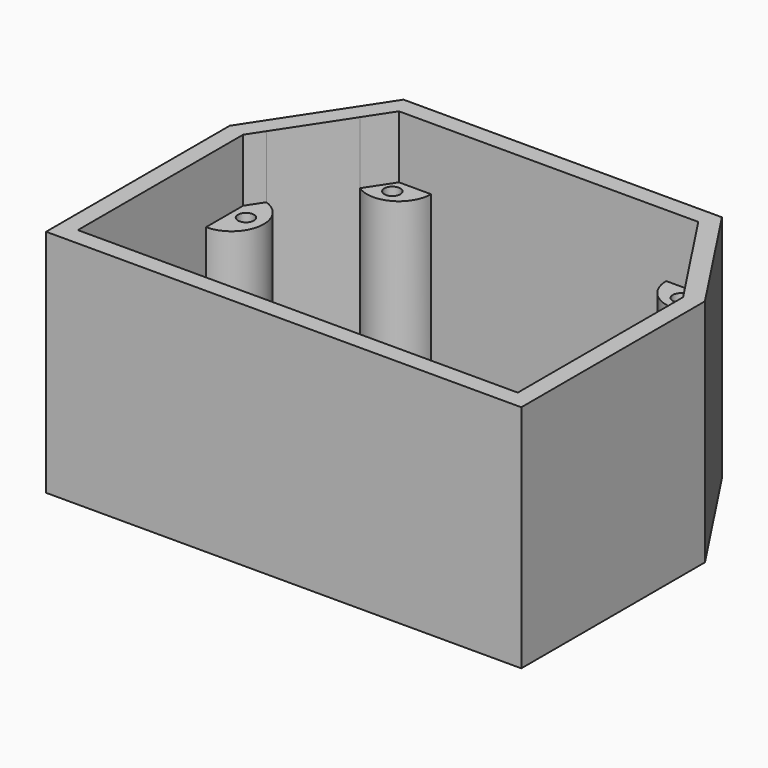
from build123d import *

# Parameters (mm, degrees)
F6_R      = 1.5
F7_DEPTH  = 29.2
F4_R      = 1.5
F8_DEPTH  = 2.1
F1_W      = 3.3
F1_H      = 10
F0_W      = 3.3
F0_H      = 10
F9_DEPTH  = 6.1
F10_DEPTH = 40.9


with BuildPart() as f7:
    # F6 (on offset) → F7 (new body)
    with BuildSketch(Plane.XY.offset(2.1)):
        Polygon((33.1796569254, 61.95), (2.5, 61.95), (-26.3796569254, 61.95), (-41.05, 39.6376911413), (-41.05, -3.3), (47.85, -3.3), (47.85, 39.6376911413), align=None)
        Polygon((44.55, 29.97), (44.55, 7.15), (44.55, 0), (37.4, 0), (-30.6, 0), (-37.75, 0), (-37.75, 7.15), (-37.75, 29.97), (-37.75, 38.65), (-35.7847248185, 41.6390116829), (-27.896317712, 53.6365890312), (-24.6, 58.65), (-18.6, 58.65), (3.4, 58.65), (25.4, 58.65), (31.4, 58.65), (34.696317712, 53.6365890312), (42.5847248185, 41.6390116829), (44.55, 38.65), (44.55, 36.9490727423), align=None, mode=Mode.SUBTRACT)
        with BuildLine():
            ThreePointArc((42.5847248185, 41.6390116829), (38.6333256766, 34.9735237327), (44.55, 29.97))
            Line((44.55, 29.97), (44.55, 36.9490727423))
            Line((44.55, 36.9490727423), (44.55, 38.65))
            Line((44.55, 38.65), (42.5847248185, 41.6390116829))
        make_face()
        with Locations((41.87, 35.97)):
            Circle(F6_R, mode=Mode.SUBTRACT)
        with BuildLine():
            Line((-37.75, 38.65), (-37.75, 29.97))
            ThreePointArc((-37.75, 29.97), (-31.8333256766, 34.9735237327), (-35.7847248185, 41.6390116829))
            Line((-35.7847248185, 41.6390116829), (-37.75, 38.65))
        make_face()
        with Locations((-35.07, 35.97)):
            Circle(F6_R, mode=Mode.SUBTRACT)
        with BuildLine():
            Line((44.55, 0), (44.55, 7.15))
            ThreePointArc((44.55, 7.15), (39.4941865145, 5.0558134855), (37.4, 0))
            Line((37.4, 0), (44.55, 0))
        make_face()
        with Locations((41.87, 2.68)):
            Circle(F6_R, mode=Mode.SUBTRACT)
        with BuildLine():
            Line((-37.75, 0), (-30.6, 0))
            ThreePointArc((-30.6, 0), (-32.6941865145, 5.0558134855), (-37.75, 7.15))
            Line((-37.75, 7.15), (-37.75, 0))
        make_face()
        with Locations((-35.07, 2.68)):
            Circle(F6_R, mode=Mode.SUBTRACT)
        with BuildLine():
            ThreePointArc((25.4, 58.65), (28.5520100309, 53.3690007446), (34.696317712, 53.6365890312))
            Line((34.696317712, 53.6365890312), (31.4, 58.65))
            Line((31.4, 58.65), (25.4, 58.65))
        make_face()
        with Locations((30.3835309261, 55.8274496246)):
            Circle(F6_R, mode=Mode.SUBTRACT)
        with BuildLine():
            Line((-24.6, 58.65), (-27.896317712, 53.6365890312))
            ThreePointArc((-27.896317712, 53.6365890312), (-21.7520100309, 53.3690007446), (-18.6, 58.65))
            Line((-18.6, 58.65), (-24.6, 58.65))
        make_face()
        with Locations((-23.5835309261, 55.8274496246)):
            Circle(F6_R, mode=Mode.SUBTRACT)
    extrude(amount=F7_DEPTH)



with BuildPart() as f8:
    # F4 (on Top) → F8 (new body)
    with BuildSketch(Plane.XY):
        Polygon((33.1796569254, 61.95), (2.5, 61.95), (-26.3796569254, 61.95), (-41.05, 39.6376911413), (-41.05, -3.3), (47.85, -3.3), (47.85, 39.6376911413), align=None)
        with BuildLine():
            Line((44.55, 7.15), (44.55, 0))
            Line((44.55, 0), (37.4, 0))
            Line((37.4, 0), (-30.6, 0))
            Line((-30.6, 0), (-37.75, 0))
            Line((-37.75, 0), (-37.75, 7.15))
            Line((-37.75, 7.15), (-37.75, 29.97))
            Line((-37.75, 29.97), (-37.75, 38.65))
            Line((-37.75, 38.65), (-35.7847248185, 41.6390116829))
            Line((-35.7847248185, 41.6390116829), (-27.896317712, 53.6365890312))
            Line((-27.896317712, 53.6365890312), (-24.6, 58.65))
            Line((-24.6, 58.65), (-18.6, 58.65))
            Line((-18.6, 58.65), (3.4, 58.65))
            Line((3.4, 58.65), (25.4, 58.65))
            Line((25.4, 58.65), (31.4, 58.65))
            Line((31.4, 58.65), (34.696317712, 53.6365890312))
            Line((34.696317712, 53.6365890312), (42.5847248185, 41.6390116829))
            ThreePointArc((42.5847248185, 41.6390116829), (38.6333256766, 34.9735237327), (44.55, 29.97))
            Line((44.55, 29.97), (44.55, 7.15))
        make_face(mode=Mode.SUBTRACT)
        Polygon((33.1796569254, 61.95), (2.5, 61.95), (-26.3796569254, 61.95), (-41.05, 39.6376911413), (-41.05, -3.3), (47.85, -3.3), (47.85, 39.6376911413), align=None)
        with BuildLine():
            Line((44.55, 7.15), (44.55, 0))
            Line((44.55, 0), (37.4, 0))
            Line((37.4, 0), (-30.6, 0))
            Line((-30.6, 0), (-37.75, 0))
            Line((-37.75, 0), (-37.75, 7.15))
            Line((-37.75, 7.15), (-37.75, 29.97))
            Line((-37.75, 29.97), (-37.75, 38.65))
            Line((-37.75, 38.65), (-35.7847248185, 41.6390116829))
            Line((-35.7847248185, 41.6390116829), (-27.896317712, 53.6365890312))
            Line((-27.896317712, 53.6365890312), (-24.6, 58.65))
            Line((-24.6, 58.65), (-18.6, 58.65))
            Line((-18.6, 58.65), (3.4, 58.65))
            Line((3.4, 58.65), (25.4, 58.65))
            Line((25.4, 58.65), (31.4, 58.65))
            Line((31.4, 58.65), (34.696317712, 53.6365890312))
            Line((34.696317712, 53.6365890312), (42.5847248185, 41.6390116829))
            ThreePointArc((42.5847248185, 41.6390116829), (38.6333256766, 34.9735237327), (44.55, 29.97))
            Line((44.55, 29.97), (44.55, 7.15))
        make_face(mode=Mode.SUBTRACT)
        with BuildLine():
            Line((-30.6, 0), (37.4, 0))
            ThreePointArc((37.4, 0), (39.4941865145, 5.0558134855), (44.55, 7.15))
            Line((44.55, 7.15), (44.55, 29.97))
            ThreePointArc((44.55, 29.97), (38.6333256766, 34.9735237327), (42.5847248185, 41.6390116829))
            Line((42.5847248185, 41.6390116829), (34.696317712, 53.6365890312))
            ThreePointArc((34.696317712, 53.6365890312), (28.5520100309, 53.3690007446), (25.4, 58.65))
            Line((25.4, 58.65), (3.4, 58.65))
            Line((3.4, 58.65), (-18.6, 58.65))
            ThreePointArc((-18.6, 58.65), (-21.7520100309, 53.3690007446), (-27.896317712, 53.6365890312))
            Line((-27.896317712, 53.6365890312), (-35.7847248185, 41.6390116829))
            ThreePointArc((-35.7847248185, 41.6390116829), (-31.8333256766, 34.9735237327), (-37.75, 29.97))
            Line((-37.75, 29.97), (-37.75, 7.15))
            ThreePointArc((-37.75, 7.15), (-32.6941865145, 5.0558134855), (-30.6, 0))
        make_face()
        with BuildLine():
            Line((-37.75, 38.65), (-37.75, 29.97))
            ThreePointArc((-37.75, 29.97), (-31.8333256766, 34.9735237327), (-35.7847248185, 41.6390116829))
            Line((-35.7847248185, 41.6390116829), (-37.75, 38.65))
        make_face()
        with BuildLine():
            Line((-37.75, 0), (-30.6, 0))
            ThreePointArc((-30.6, 0), (-32.6941865145, 5.0558134855), (-37.75, 7.15))
            Line((-37.75, 7.15), (-37.75, 0))
        make_face()
        with BuildLine():
            Line((37.4, 0), (44.55, 0))
            Line((44.55, 0), (44.55, 7.15))
            ThreePointArc((44.55, 7.15), (39.4941865145, 5.0558134855), (37.4, 0))
        make_face()
        with BuildLine():
            ThreePointArc((25.4, 58.65), (28.5520100309, 53.3690007446), (34.696317712, 53.6365890312))
            Line((34.696317712, 53.6365890312), (31.4, 58.65))
            Line((31.4, 58.65), (25.4, 58.65))
        make_face()
        with Locations((30.3835309261, 55.8274496246)):
            Circle(F4_R, mode=Mode.SUBTRACT)
        with BuildLine():
            Line((-24.6, 58.65), (-27.896317712, 53.6365890312))
            ThreePointArc((-27.896317712, 53.6365890312), (-21.7520100309, 53.3690007446), (-18.6, 58.65))
            Line((-18.6, 58.65), (-24.6, 58.65))
        make_face()
        with Locations((-23.5835309261, 55.8274496246)):
            Circle(F4_R, mode=Mode.SUBTRACT)
        with Locations((30.3835309261, 55.8274496246)):
            Circle(F4_R)
        with Locations((-23.5835309261, 55.8274496246)):
            Circle(F4_R)
    extrude(amount=F8_DEPTH)


with BuildPart() as f7_1:
    add(f7.part)

    add(f8.part)  # F9 merges F8
    # F1 (on Top) + F0 (on Top) → F9 (join)
    with BuildSketch(Plane.XY):
        with Locations((-29.25, 40.5)):
            Rectangle(F1_W, F1_H)
        Polygon((-30.9, 45.5), (-27.6, 45.5), (-22.9, 45.5), (-22.9, 48.8), (-30.9, 48.8), align=None)
        with Locations((-29.25, 5)):
            Rectangle(F1_W, F1_H)
        with Locations((-5.95, 5)):
            Rectangle(F1_W, F1_H)
        with Locations((-5.95, 40.5)):
            Rectangle(F1_W, F1_H)
        Polygon((-12.3, 45.5), (-7.6, 45.5), (-4.3, 45.5), (-4.3, 48.8), (-12.3, 48.8), align=None)
    with BuildSketch(Plane.XY):
        with Locations((-1.65, 5)):
            Rectangle(F0_W, F0_H)
        with Locations((2.93, 43.45)):
            Rectangle(F0_W, F0_H)
        Polygon((1.28, 48.45), (4.58, 48.45), (14.58, 48.45), (14.58, 51.75), (1.28, 51.75), align=None)
        Polygon((19.52, 51.75), (19.52, 48.45), (29.52, 48.45), (32.82, 48.45), (32.82, 51.75), align=None)
        with Locations((31.17, 43.45)):
            Rectangle(F0_W, F0_H)
        with Locations((35.75, 5)):
            Rectangle(F0_W, F0_H)
    extrude(amount=F9_DEPTH)

    # F6 (on offset) → F10 (join)
    with BuildSketch(Plane.XY.offset(2.1)):
        Polygon((33.1796569254, 61.95), (2.5, 61.95), (-26.3796569254, 61.95), (-41.05, 39.6376911413), (-41.05, -3.3), (47.85, -3.3), (47.85, 39.6376911413), align=None)
        Polygon((44.55, 29.97), (44.55, 7.15), (44.55, 0), (37.4, 0), (-30.6, 0), (-37.75, 0), (-37.75, 7.15), (-37.75, 29.97), (-37.75, 38.65), (-35.7847248185, 41.6390116829), (-27.896317712, 53.6365890312), (-24.6, 58.65), (-18.6, 58.65), (3.4, 58.65), (25.4, 58.65), (31.4, 58.65), (34.696317712, 53.6365890312), (42.5847248185, 41.6390116829), (44.55, 38.65), (44.55, 36.9490727423), align=None, mode=Mode.SUBTRACT)
    extrude(amount=F10_DEPTH)


solid = f7_1.part
